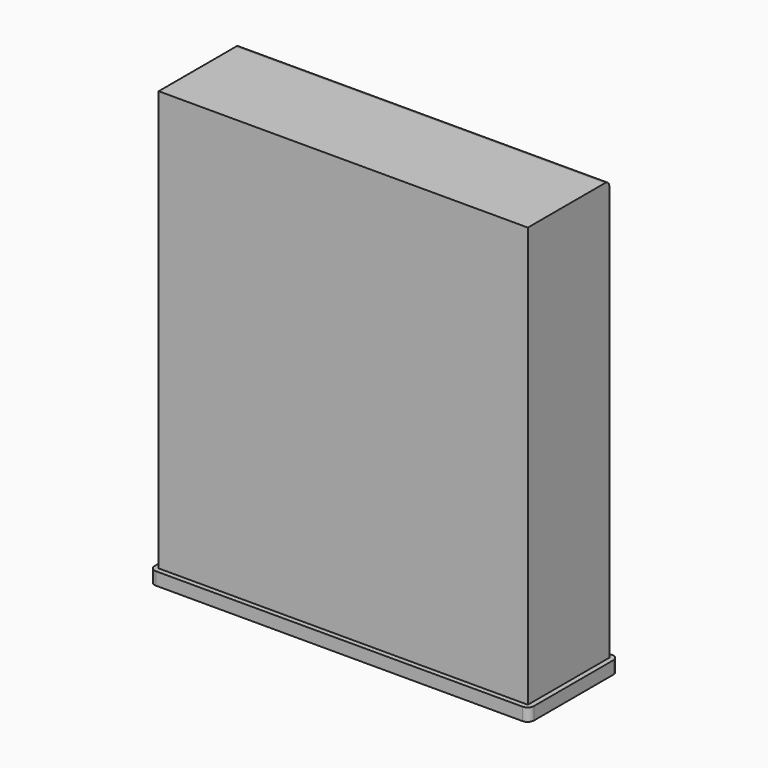
from build123d import *

# Parameters (mm, degrees)
F0_W     = 145
F0_H     = 40
F1_DEPTH = 165
F2_R     = 2
F4_DEPTH = 5
F6_DEPTH = 0.2
F7_DEPTH = 1
F9_DEPTH = 2


with BuildPart() as f1:
    # F0 (on Top) → F1 (new body)
    with BuildSketch(Plane.XY):
        with Locations((21.1617818475, 12.8752994537)):
            Rectangle(F0_W, F0_H)
    extrude(amount=F1_DEPTH)

    # F2
    f2_edges = [f1.edges().sort_by_distance(p)[0] for p in [
        (21.161782, 32.875299, 165),
    ]]
    fillet(f2_edges, radius=F2_R)

    # F3 (on face) → F4 (join)
    with BuildSketch(Plane(origin=(0, 0, 0), x_dir=(1, 0, 0), z_dir=(0, 0, -1))):
        with BuildLine():
            Line((-53.3382181525, 6.6247005463), (-53.3382181525, -12.8752994537))
            Line((-53.3382181525, -12.8752994537), (-53.3382181525, -32.3752994537))
            ThreePointArc((-53.3382181525, -32.3752994537), (-52.6059851055, -34.1430664067), (-50.8382181525, -34.8752994537))
            Line((-50.8382181525, -34.8752994537), (45.6353314221, -34.8752994537))
            Line((45.6353314221, -34.8752994537), (93.1617818475, -34.8752994537))
            ThreePointArc((93.1617818475, -34.8752994537), (94.9295488004, -34.1430664067), (95.6617818475, -32.3752994537))
            Line((95.6617818475, -32.3752994537), (95.6617818475, -12.8752994537))
            Line((95.6617818475, -12.8752994537), (95.6617818475, 6.6247005463))
            ThreePointArc((95.6617818475, 6.6247005463), (94.9295488004, 8.3924674992), (93.1617818475, 9.1247005463))
            Line((93.1617818475, 9.1247005463), (22.451678291, 9.1247005463))
            Line((22.451678291, 9.1247005463), (-50.8382181525, 9.1247005463))
            ThreePointArc((-50.8382181525, 9.1247005463), (-52.6059851055, 8.3924674992), (-53.3382181525, 6.6247005463))
        make_face()
    extrude(amount=F4_DEPTH)

    # F5 (on face) → F6 (join)
    with BuildSketch(Plane(origin=(0, 0, -5), x_dir=(1, 0, 0), z_dir=(0, 0, -1))):
        Polygon((-48.3382181525, -30.8752994537), (29.9128331244, -30.8752994537), (41.8360643089, -30.8752994537), (41.8360643089, -29.8752994537), (-47.3382181525, -29.8752994537), (-47.3382181525, -24.8752994537), (-48.3382181525, -24.8752994537), align=None)
        Polygon((41.8360643089, -29.8752994537), (41.8360643089, -30.8752994537), (90.6617818475, -30.8752994537), (90.6617818475, -27.4621471763), (90.6617818475, -24.8752994537), (89.6617818475, -24.8752994537), (89.6617818475, -29.8752994537), align=None)
        Polygon((-48.3382181525, -20.8752994537), (-48.3382181525, -24.8752994537), (-47.3382181525, -24.8752994537), (-47.3382181525, -19.8752994537), (26.0328520089, -19.8752994537), (26.0328520089, -18.8752994537), (-48.3382181525, -18.8752994537), align=None)
        Polygon((89.6617818475, -24.8752994537), (90.6617818475, -24.8752994537), (90.6617818475, -18.8752994537), (26.0328520089, -18.8752994537), (26.0328520089, -19.8752994537), (89.6617818475, -19.8752994537), align=None)
    extrude(amount=F6_DEPTH)

    # F7 (cut): a face of the model
    f7_faces = [f1.faces().sort_by_distance(p)[0] for p in [
        (21.1617818475, 30.7357824297, -5.2),
    ]]
    extrude(f7_faces, amount=-F7_DEPTH, mode=Mode.SUBTRACT)

    # F8 (on face) → F9 (join)
    with BuildSketch(Plane(origin=(0, 0, -5), x_dir=(1, 0, 0), z_dir=(0, 0, -1))):
        with BuildLine():
            ThreePointArc((-41.3382181525, -0.3752994537), (-40.6059851055, -2.1430664067), (-38.8382181525, -2.8752994537))
            Line((-38.8382181525, -2.8752994537), (-28.8382181525, -2.8752994537))
            ThreePointArc((-28.8382181525, -2.8752994537), (-27.0704511996, -2.1430664067), (-26.3382181525, -0.3752994537))
            ThreePointArc((-26.3382181525, -0.3752994537), (-27.0704511996, 1.3924674992), (-28.8382181525, 2.1247005463))
            Line((-28.8382181525, 2.1247005463), (-38.8382181525, 2.1247005463))
            ThreePointArc((-38.8382181525, 2.1247005463), (-40.6059851055, 1.3924674992), (-41.3382181525, -0.3752994537))
        make_face()
    extrude(amount=F9_DEPTH)


solid = f1.part
